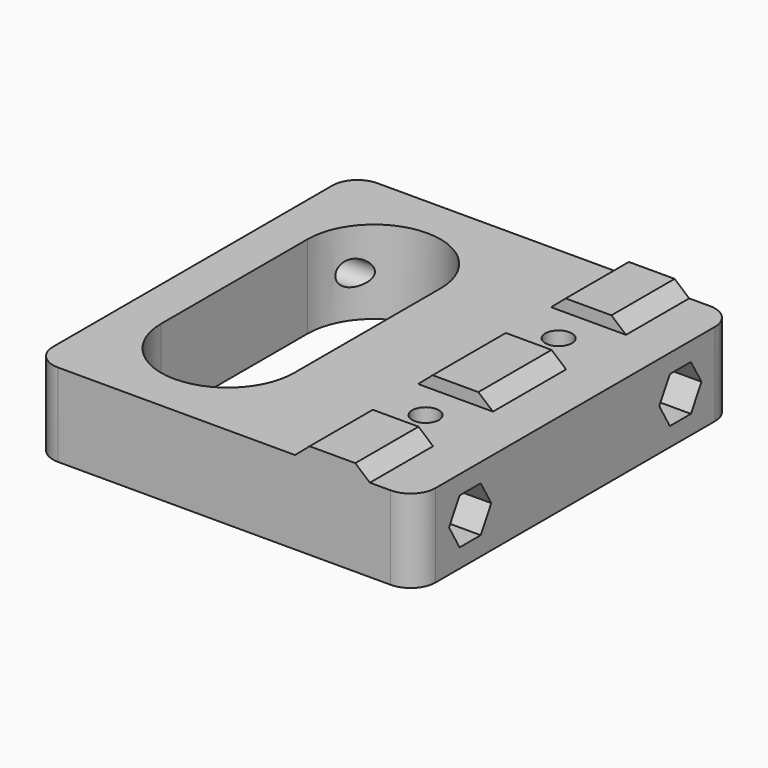
from build123d import *

# Parameters (mm, degrees)
SKETCH_W        = 46
SKETCH_H        = 48
PAD_DEPTH       = 10
SKETCH001_R     = 1.5
POCKET_DEPTH    = 46.001
SKETCH002_R     = 1.6
POCKET001_DEPTH = 10.001
PAD001_DEPTH    = 48
PAD001_FACE20_R = 1.6
POCKET002_DEPTH = 1.501
SKETCH004_W     = 9
SKETCH004_H     = 9
POCKET003_DEPTH = 1.5
FILLET_R        = 3
POCKET004_DEPTH = 10.5


with BuildPart() as part:
    # Sketch → Pad (new body)
    with BuildSketch(Plane.XY):
        with Locations((-3, 0)):
            Rectangle(SKETCH_W, SKETCH_H)
        with BuildLine():
            ThreePointArc((-5, 11), (-13, 19), (-21, 11))
            Line((-21, 11), (-21, -11))
            ThreePointArc((-21, -11), (-13, -19), (-5, -11))
            Line((-5, 11), (-5, -11))
        make_face(mode=Mode.SUBTRACT)
    extrude(amount=PAD_DEPTH)

    # Sketch001 (on Face2 of Pad) → Pocket (cut, through all)
    with BuildSketch(Plane(origin=(-26, 0, 0), x_dir=(0, -1, 0), z_dir=(-1, 0, 0))):
        with Locations((-15.8, 5)):
            Circle(SKETCH001_R)
        with Locations((15.8, 5)):
            Circle(SKETCH001_R)
    extrude(amount=-POCKET_DEPTH, mode=Mode.SUBTRACT)

    # Sketch002 (on Face5 of Pocket) → Pocket001 (cut, through all)
    with BuildSketch(Plane.XY.offset(10)):
        with Locations((10, 10)):
            Circle(SKETCH002_R)
        with Locations((10, -10)):
            Circle(SKETCH002_R)
    extrude(amount=-POCKET001_DEPTH, mode=Mode.SUBTRACT)

    # Sketch003 (on Face1 of Pocket001) → Pad001 (join)
    with BuildSketch(Plane(origin=(0, 24, 0), x_dir=(-1, 0, 0), z_dir=(0, 1, 0))):
        Polygon((-12.75, 11.5), (-7.25, 11.5), (-5.5, 10), (-14.5, 10), align=None)
    extrude(amount=-PAD001_DEPTH)

    # Pad001 Face20 → Pocket002 (cut, through all)
    with BuildSketch(Plane(origin=(10, 10, 10), x_dir=(0, -1, 0), z_dir=(0, 0, -1))):
        Circle(PAD001_FACE20_R)
    extrude(amount=-POCKET002_DEPTH, mode=Mode.SUBTRACT)

    # Sketch004 (on Face10 of Pocket002) → Pocket003 (cut)
    with BuildSketch(Plane.XY.offset(11.5)):
        with Locations((10, 10)):
            Rectangle(SKETCH004_W, SKETCH004_H)
        with Locations((10, -10)):
            Rectangle(SKETCH004_W, SKETCH004_H)
    extrude(amount=-POCKET003_DEPTH, mode=Mode.SUBTRACT)

    # Fillet
    fillet_edges = [part.edges().sort_by_distance(p)[0] for p in [
        (-26, -24, 5),
        (-26, 24, 5),
        (20, -24, 5),
        (20, 24, 5),
    ]]
    fillet(fillet_edges, radius=FILLET_R)

    # Sketch006 (on Face1 of Fillet) → Pocket004 (cut)
    with BuildSketch(Plane.YZ.offset(20)):
        Polygon((-12.624574, 5), (-14.212287, 7.75), (-17.387713, 7.75), (-18.975426, 5), (-17.387713, 2.25), (-14.212287, 2.25), align=None)
        Polygon((17.387713, 7.75), (14.212287, 7.75), (12.624574, 5), (14.212287, 2.25), (17.387713, 2.25), (18.975426, 5), align=None)
    extrude(amount=-POCKET004_DEPTH, mode=Mode.SUBTRACT)


solid = part.part
